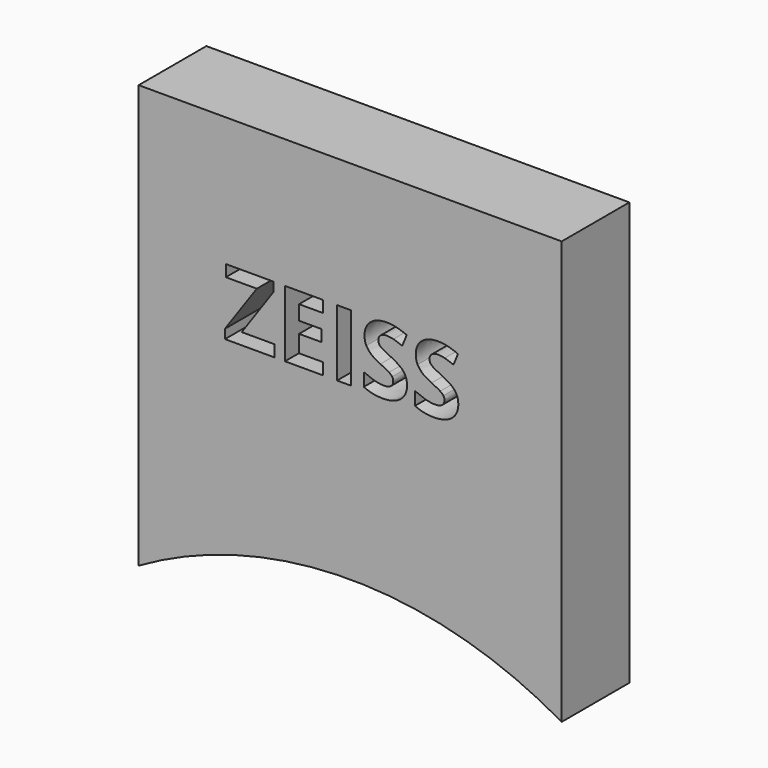
from build123d import *

# Parameters (mm, degrees)
F0_W     = 127
F0_H     = 127
F0_W_2   = 4.2285097079
F0_H_2   = 19.9381432976
F1_DEPTH = 25.4
F3_DEPTH = 25.4


with BuildPart() as f1:
    # F0 (on Front) → F1 (new body)
    with BuildSketch(Plane.XZ):
        Rectangle(F0_W, F0_H)
        Polygon((-22.7507378271, 8.2904180357), (-22.7507378271, 4.7993883491), (-37.5876139951, 4.7993883491), (-37.5876139951, 7.539846653), (-28.0265564409, 21.2465019601), (-37.3257867686, 21.2465019601), (-37.3257867686, 24.7375316467), (-23.0082012664, 24.7375316467), (-23.0082012664, 22.010164704), (-32.5561674593, 8.2904180357), align=None, mode=Mode.SUBTRACT)
        Polygon((-8.0927769304, 8.2904180357), (-8.0927769304, 4.7993883491), (-19.5739008122, 4.7993883491), (-19.5739008122, 24.7375316467), (-8.0927769304, 24.7375316467), (-8.0927769304, 21.2726846827), (-15.3453911043, 21.2726846827), (-15.3453911043, 16.8958062131), (-8.5946124479, 16.8958062131), (-8.5946124479, 13.4309592492), (-15.3453911043, 13.4309592492), (-15.3453911043, 8.2904180357), align=None, mode=Mode.SUBTRACT)
        with Locations((-1.8198329623, 14.7684599979)):
            Rectangle(F0_W_2, F0_H_2, mode=Mode.SUBTRACT)
        with BuildLine():
            add(Edge.make_bspline(
                [(16.0455114589, 13.6295115626), (17.0819108971, 12.2876470268), (17.0819108971, 10.3370341894)],
                knots=[0, 0, 0, 1, 1, 1], degree=2))
            add(Edge.make_bspline(
                [(17.0819108971, 10.3370341894), (17.0819108971, 7.6358499694), (15.1378437404, 6.0801598653)],
                knots=[0, 0, 0, 1, 1, 1], degree=2))
            add(Edge.make_bspline(
                [(15.1378437404, 6.0801598653), (13.1937765836, 4.5244697612), (9.7332934068, 4.5244697612)],
                knots=[0, 0, 0, 1, 1, 1], degree=2))
            add(Edge.make_bspline(
                [(9.7332934068, 4.5244697612), (6.5390012436, 4.5244697612), (4.0865528887, 5.7288750031)],
                knots=[0, 0, 0, 1, 1, 1], degree=2))
            Line((4.0865528887, 5.7288750031), (4.0865528887, 9.6562834005))
            add(Edge.make_bspline(
                [(4.0865528887, 9.6562834005), (6.1026225327, 8.7529794691), (7.5012163009, 8.386421352)],
                knots=[0, 0, 0, 1, 1, 1], degree=2))
            add(Edge.make_bspline(
                [(7.5012163009, 8.386421352), (8.8998100691, 8.0198632349), (10.0605774399, 8.0198632349)],
                knots=[0, 0, 0, 1, 1, 1], degree=2))
            add(Edge.make_bspline(
                [(10.0605774399, 8.0198632349), (11.4482617403, 8.0198632349), (12.1922874423, 8.5500633686)],
                knots=[0, 0, 0, 1, 1, 1], degree=2))
            add(Edge.make_bspline(
                [(12.1922874423, 8.5500633686), (12.9363131443, 9.0802635023), (12.9363131443, 10.1319361953)],
                knots=[0, 0, 0, 1, 1, 1], degree=2))
            add(Edge.make_bspline(
                [(12.9363131443, 10.1319361953), (12.9363131443, 10.7166836679), (12.6090291111, 11.1748813142)],
                knots=[0, 0, 0, 1, 1, 1], degree=2))
            add(Edge.make_bspline(
                [(12.6090291111, 11.1748813142), (12.281745078, 11.6330789606), (11.6468140538, 12.0541844165)],
                knots=[0, 0, 0, 1, 1, 1], degree=2))
            add(Edge.make_bspline(
                [(11.6468140538, 12.0541844165), (11.0118830295, 12.4752898725), (9.0612701921, 13.4047765265)],
                knots=[0, 0, 0, 1, 1, 1], degree=2))
            add(Edge.make_bspline(
                [(9.0612701921, 13.4047765265), (7.2372071809, 14.2644425869), (6.3229937817, 15.0542880535)],
                knots=[0, 0, 0, 1, 1, 1], degree=2))
            add(Edge.make_bspline(
                [(6.3229937817, 15.0542880535), (5.4087803825, 15.8441335201), (4.863306994, 16.8958062131)],
                knots=[0, 0, 0, 1, 1, 1], degree=2))
            add(Edge.make_bspline(
                [(4.863306994, 16.8958062131), (4.3178336055, 17.9474789062), (4.3178336055, 19.348254568)],
                knots=[0, 0, 0, 1, 1, 1], degree=2))
            add(Edge.make_bspline(
                [(4.3178336055, 19.348254568), (4.3178336055, 21.9970733427), (6.1113501069, 23.5091255757)],
                knots=[0, 0, 0, 1, 1, 1], degree=2))
            add(Edge.make_bspline(
                [(6.1113501069, 23.5091255757), (7.9048666084, 25.0211778087), (11.0686122619, 25.0211778087)],
                knots=[0, 0, 0, 1, 1, 1], degree=2))
            add(Edge.make_bspline(
                [(11.0686122619, 25.0211778087), (12.6221204725, 25.0211778087), (14.033805602, 24.6546196916)],
                knots=[0, 0, 0, 1, 1, 1], degree=2))
            add(Edge.make_bspline(
                [(14.033805602, 24.6546196916), (15.4454907315, 24.2880615745), (16.9859075807, 23.620402147)],
                knots=[0, 0, 0, 1, 1, 1], degree=2))
            Line((16.9859075807, 23.620402147), (15.6244060029, 20.3301066673))
            add(Edge.make_bspline(
                [(15.6244060029, 20.3301066673), (14.0272599213, 20.9846747336), (12.9843148025, 21.2443200665)],
                knots=[0, 0, 0, 1, 1, 1], degree=2))
            add(Edge.make_bspline(
                [(12.9843148025, 21.2443200665), (11.9413696836, 21.5039653995), (10.9333348616, 21.5039653995)],
                knots=[0, 0, 0, 1, 1, 1], degree=2))
            add(Edge.make_bspline(
                [(10.9333348616, 21.5039653995), (9.7332934068, 21.5039653995), (9.0918167019, 20.9454006496)],
                knots=[0, 0, 0, 1, 1, 1], degree=2))
            add(Edge.make_bspline(
                [(9.0918167019, 20.9454006496), (8.450339997, 20.3868358997), (8.450339997, 19.4878957554)],
                knots=[0, 0, 0, 1, 1, 1], degree=2))
            add(Edge.make_bspline(
                [(8.450339997, 19.4878957554), (8.450339997, 18.9293310056), (8.7099853299, 18.5125893368)],
                knots=[0, 0, 0, 1, 1, 1], degree=2))
            add(Edge.make_bspline(
                [(8.7099853299, 18.5125893368), (8.9696306629, 18.0958476679), (9.5347410934, 17.7074706153)],
                knots=[0, 0, 0, 1, 1, 1], degree=2))
            add(Edge.make_bspline(
                [(9.5347410934, 17.7074706153), (10.0998515239, 17.3190935626), (12.2119244843, 16.3110587406)],
                knots=[0, 0, 0, 1, 1, 1], degree=2))
            add(Edge.make_bspline(
                [(12.2119244843, 16.3110587406), (15.0091120207, 14.9713760984), (16.0455114589, 13.6295115626)],
                knots=[0, 0, 0, 1, 1, 1], degree=2))
        make_face(mode=Mode.SUBTRACT)
        with BuildLine():
            add(Edge.make_bspline(
                [(31.4278610155, 13.6295115626), (32.4642604537, 12.2876470268), (32.4642604537, 10.3370341894)],
                knots=[0, 0, 0, 1, 1, 1], degree=2))
            add(Edge.make_bspline(
                [(32.4642604537, 10.3370341894), (32.4642604537, 7.6358499694), (30.520193297, 6.0801598653)],
                knots=[0, 0, 0, 1, 1, 1], degree=2))
            add(Edge.make_bspline(
                [(30.520193297, 6.0801598653), (28.5761261403, 4.5244697612), (25.1156429634, 4.5244697612)],
                knots=[0, 0, 0, 1, 1, 1], degree=2))
            add(Edge.make_bspline(
                [(25.1156429634, 4.5244697612), (21.9213508002, 4.5244697612), (19.4689024453, 5.7288750031)],
                knots=[0, 0, 0, 1, 1, 1], degree=2))
            Line((19.4689024453, 5.7288750031), (19.4689024453, 9.6562834005))
            add(Edge.make_bspline(
                [(19.4689024453, 9.6562834005), (21.4849720893, 8.7529794691), (22.8835658575, 8.386421352)],
                knots=[0, 0, 0, 1, 1, 1], degree=2))
            add(Edge.make_bspline(
                [(22.8835658575, 8.386421352), (24.2821596257, 8.0198632349), (25.4429269965, 8.0198632349)],
                knots=[0, 0, 0, 1, 1, 1], degree=2))
            add(Edge.make_bspline(
                [(25.4429269965, 8.0198632349), (26.8306112969, 8.0198632349), (27.5746369989, 8.5500633686)],
                knots=[0, 0, 0, 1, 1, 1], degree=2))
            add(Edge.make_bspline(
                [(27.5746369989, 8.5500633686), (28.3186627009, 9.0802635023), (28.3186627009, 10.1319361953)],
                knots=[0, 0, 0, 1, 1, 1], degree=2))
            add(Edge.make_bspline(
                [(28.3186627009, 10.1319361953), (28.3186627009, 10.7166836679), (27.9913786677, 11.1748813142)],
                knots=[0, 0, 0, 1, 1, 1], degree=2))
            add(Edge.make_bspline(
                [(27.9913786677, 11.1748813142), (27.6640946346, 11.6330789606), (27.0291636104, 12.0541844165)],
                knots=[0, 0, 0, 1, 1, 1], degree=2))
            add(Edge.make_bspline(
                [(27.0291636104, 12.0541844165), (26.3942325861, 12.4752898725), (24.4436197487, 13.4047765265)],
                knots=[0, 0, 0, 1, 1, 1], degree=2))
            add(Edge.make_bspline(
                [(24.4436197487, 13.4047765265), (22.6195567375, 14.2644425869), (21.7053433383, 15.0542880535)],
                knots=[0, 0, 0, 1, 1, 1], degree=2))
            add(Edge.make_bspline(
                [(21.7053433383, 15.0542880535), (20.7911299391, 15.8441335201), (20.2456565506, 16.8958062131)],
                knots=[0, 0, 0, 1, 1, 1], degree=2))
            add(Edge.make_bspline(
                [(20.2456565506, 16.8958062131), (19.7001831621, 17.9474789062), (19.7001831621, 19.348254568)],
                knots=[0, 0, 0, 1, 1, 1], degree=2))
            add(Edge.make_bspline(
                [(19.7001831621, 19.348254568), (19.7001831621, 21.9970733427), (21.4936996636, 23.5091255757)],
                knots=[0, 0, 0, 1, 1, 1], degree=2))
            add(Edge.make_bspline(
                [(21.4936996636, 23.5091255757), (23.287216165, 25.0211778087), (26.4509618185, 25.0211778087)],
                knots=[0, 0, 0, 1, 1, 1], degree=2))
            add(Edge.make_bspline(
                [(26.4509618185, 25.0211778087), (28.0044700291, 25.0211778087), (29.4161551586, 24.6546196916)],
                knots=[0, 0, 0, 1, 1, 1], degree=2))
            add(Edge.make_bspline(
                [(29.4161551586, 24.6546196916), (30.8278402881, 24.2880615745), (32.3682571373, 23.620402147)],
                knots=[0, 0, 0, 1, 1, 1], degree=2))
            Line((32.3682571373, 23.620402147), (31.0067555595, 20.3301066673))
            add(Edge.make_bspline(
                [(31.0067555595, 20.3301066673), (29.4096094779, 20.9846747336), (28.3666643591, 21.2443200665)],
                knots=[0, 0, 0, 1, 1, 1], degree=2))
            add(Edge.make_bspline(
                [(28.3666643591, 21.2443200665), (27.3237192402, 21.5039653995), (26.3156844182, 21.5039653995)],
                knots=[0, 0, 0, 1, 1, 1], degree=2))
            add(Edge.make_bspline(
                [(26.3156844182, 21.5039653995), (25.1156429634, 21.5039653995), (24.4741662585, 20.9454006496)],
                knots=[0, 0, 0, 1, 1, 1], degree=2))
            add(Edge.make_bspline(
                [(24.4741662585, 20.9454006496), (23.8326895536, 20.3868358997), (23.8326895536, 19.4878957554)],
                knots=[0, 0, 0, 1, 1, 1], degree=2))
            add(Edge.make_bspline(
                [(23.8326895536, 19.4878957554), (23.8326895536, 18.9293310056), (24.0923348865, 18.5125893368)],
                knots=[0, 0, 0, 1, 1, 1], degree=2))
            add(Edge.make_bspline(
                [(24.0923348865, 18.5125893368), (24.3519802195, 18.0958476679), (24.91709065, 17.7074706153)],
                knots=[0, 0, 0, 1, 1, 1], degree=2))
            add(Edge.make_bspline(
                [(24.91709065, 17.7074706153), (25.4822010805, 17.3190935626), (27.5942740409, 16.3110587406)],
                knots=[0, 0, 0, 1, 1, 1], degree=2))
            add(Edge.make_bspline(
                [(27.5942740409, 16.3110587406), (30.3914615773, 14.9713760984), (31.4278610155, 13.6295115626)],
                knots=[0, 0, 0, 1, 1, 1], degree=2))
        make_face(mode=Mode.SUBTRACT)
    extrude(amount=F1_DEPTH)

    # F2 (on face) → F3 (cut)
    with BuildSketch(Plane.XZ.offset(25.4)):
        with BuildLine():
            Line((-63.5, -63.5), (63.5, -63.5))
            ThreePointArc((63.5, -63.5), (0, -46.4852262806), (-63.5, -63.5))
        make_face()
    extrude(amount=-F3_DEPTH, mode=Mode.SUBTRACT)


solid = f1.part
